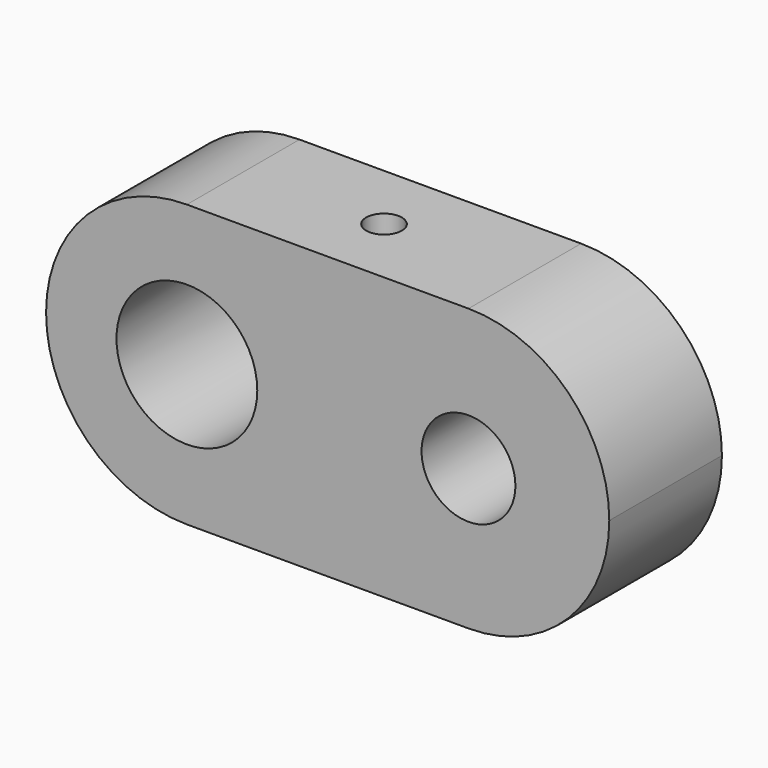
from build123d import *

# Parameters (mm, degrees)
F0_R     = 9.525
F0_R_2   = 6.35
F1_DEPTH = 19.05
F2_R     = 2.413
F3_DEPTH = 19.05


with BuildPart() as f1:
    # F0 (on Front) → F1 (new body)
    with BuildSketch(Plane.XZ):
        with BuildLine():
            Line((-5.435167, 32.998715), (-43.535167, 32.998715))
            ThreePointArc((-43.535167, 32.998715), (-57.005552, 27.419099), (-62.585167, 13.948715))
            ThreePointArc((-62.585167, 13.948715), (-57.005552, 0.47833), (-43.535167, -5.101285))
            Line((-43.535167, -5.101285), (-5.435167, -5.101285))
            ThreePointArc((-5.435167, -5.101285), (8.035217, 0.47833), (13.614833, 13.948715))
            ThreePointArc((13.614833, 13.948715), (8.035217, 27.419099), (-5.435167, 32.998715))
        make_face()
        with Locations((-43.535167, 13.948715)):
            Circle(F0_R, mode=Mode.SUBTRACT)
        with Locations((-5.435167, 13.948715)):
            Circle(F0_R_2, mode=Mode.SUBTRACT)
    extrude(amount=F1_DEPTH)

    # F2 (on face) → F3 (cut)
    with BuildSketch(Plane.XY.offset(32.998715)):
        with Locations((-24.485167, -9.525)):
            Circle(F2_R)
    extrude(amount=-F3_DEPTH, mode=Mode.SUBTRACT)


solid = f1.part
